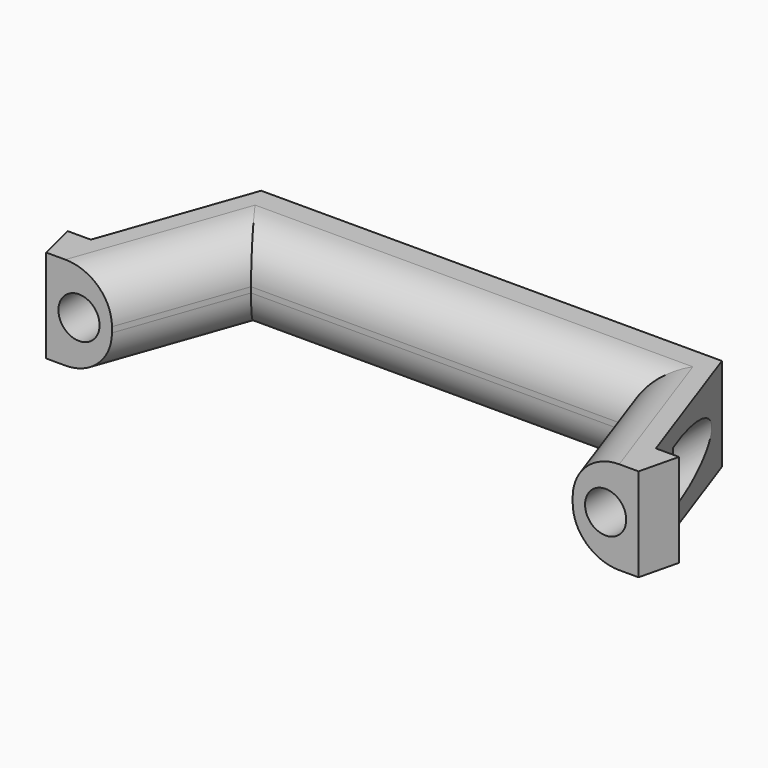
from build123d import *

# Parameters (mm, degrees)
F1_DEPTH = 21.59
F2_R     = 4.7625
F3_DEPTH = 25.4
F4_R     = 6.35
F5_DEPTH = 25.4
F6_R     = 10.16


with BuildPart() as f1:
    # F0 (on Top) → F1 (new body)
    with BuildSketch(Plane.XY):
        Polygon((53.34, 0), (0, 0), (-53.34, 0), (-65.4083, -34.193517), (-70.758128, -34.193517), (-68.58, -43.18), (-53.34, -43.18), (-43.478824, -15.24), (0, -15.24), (43.478824, -15.24), (53.34, -43.18), (68.58, -43.18), (70.758128, -34.193517), (65.4083, -34.193517), align=None)
    extrude(amount=F1_DEPTH)

    # F2 (on face) → F3 (cut)
    with BuildSketch(Plane.XZ.offset(43.18)):
        with Locations((-60.96, 10.795)):
            Circle(F2_R)
        with Locations((60.96, 10.795)):
            Circle(F2_R)
    extrude(amount=-F3_DEPTH, mode=Mode.SUBTRACT)

    # F4 (on face) → F5 (cut)
    with BuildSketch(Plane(origin=(0, 0, 0), x_dir=(-1, 0, 0), z_dir=(0, 1, 0))):
        with Locations((-61.568875, 10.795)):
            Circle(F4_R)
        with Locations((61.568875, 10.795)):
            Circle(F4_R)
    extrude(amount=-F5_DEPTH, mode=Mode.SUBTRACT)

    # F6
    f6_edges = [f1.edges().sort_by_distance(p)[0] for p in [
        (0, -15.24, 0),
        (48.409412, -29.21, 0),
        (-48.409412, -29.21, 0),
        (48.409412, -29.21, 21.59),
        (0, -15.24, 21.59),
        (-48.409412, -29.21, 21.59),
    ]]
    fillet(f6_edges, radius=F6_R)


solid = f1.part
